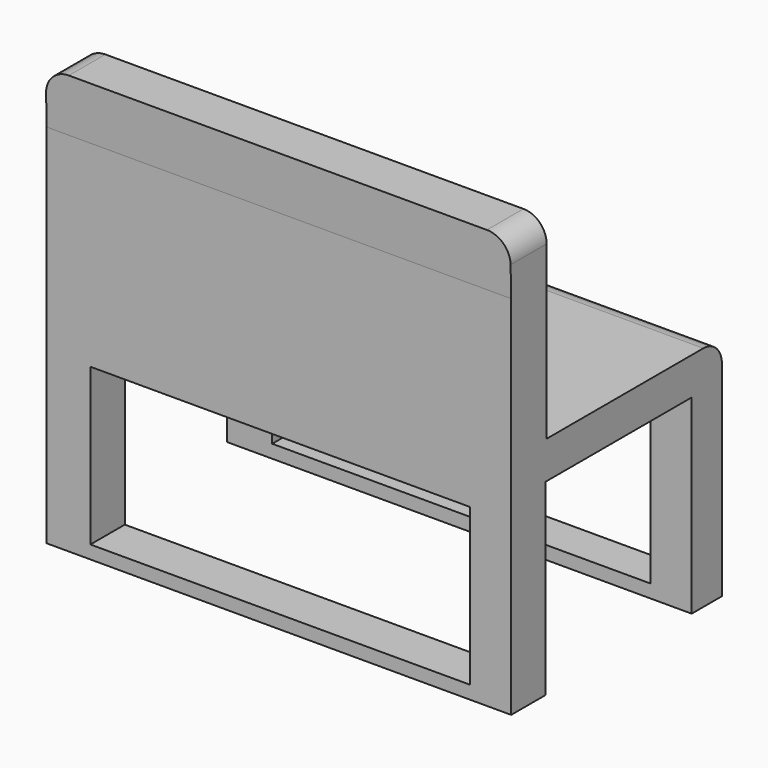
from build123d import *

# Parameters (mm, degrees)
F1_DEPTH = 101.6
F2_R     = 5.08
F4_W     = 83.005025
F4_H     = 34.228876
F5_DEPTH = 25.4
F3_W     = 82.719785
F3_H     = 34.51412
F6_DEPTH = 25.4


with BuildPart() as f1:
    # F0 (on Right) → F1 (new body)
    with BuildSketch(Plane.YZ):
        Polygon((-64.356416, 42.612657), (-64.071178, 30.91779), (-64.071178, -49.234834), (-54.658234, -49.234834), (-54.658234, -8.160179), (-14.724543, -8.160179), (-14.724543, -49.805317), (-6.452564, -49.805317), (-6.452564, -7.589698), (-6.452564, 0), (-54.372992, 0), (-54.372992, 42.612657), align=None)
    extrude(amount=F1_DEPTH)

    # F2
    f2_edges = [f1.edges().sort_by_distance(p)[0] for p in [
        (101.6, -59.364704, 42.612657),
        (0, -59.364704, 42.612657),
        (50.8, -6.452564, 0),
    ]]
    fillet(f2_edges, radius=F2_R)

    # F4 (on face) → F5 (cut)
    with BuildSketch(Plane.XZ.offset(64.071178)):
        with Locations((51.064864, -29.237166)):
            Rectangle(F4_W, F4_H)
    extrude(amount=-F5_DEPTH, mode=Mode.SUBTRACT)

    # F3 (on face) → F6 (cut)
    with BuildSketch(Plane(origin=(0, -6.452564, 0), x_dir=(-1, 0, 0), z_dir=(0, 1, 0))):
        with Locations((-51.207484, -29.665028)):
            Rectangle(F3_W, F3_H)
    extrude(amount=-F6_DEPTH, mode=Mode.SUBTRACT)


solid = f1.part
